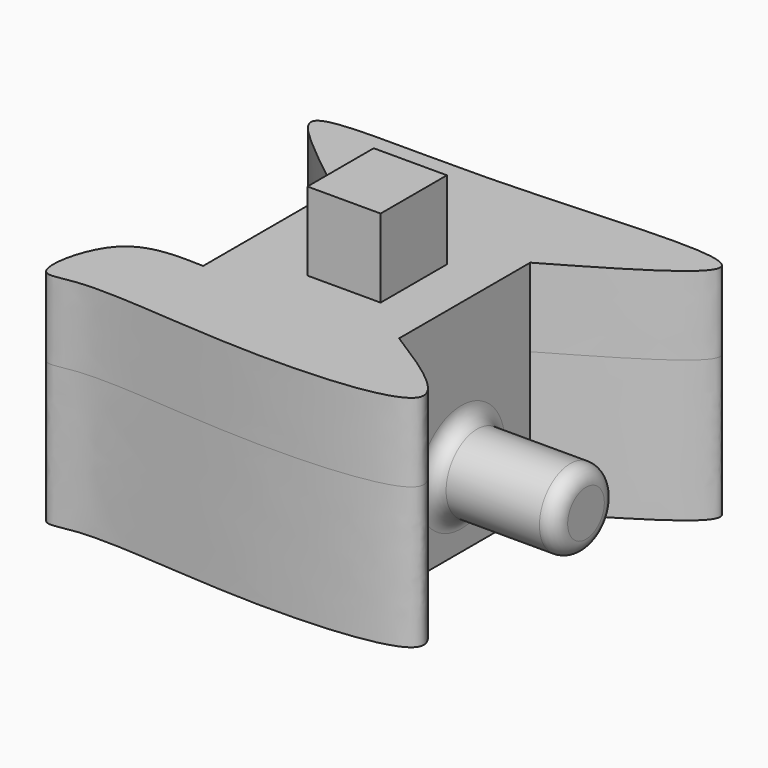
from build123d import *

# Parameters (mm, degrees)
F1_DEPTH = 45.72
F2_R     = 12.4974932992
F3_DEPTH = 40.386
F4_R     = 5.08
F5_W     = 28.9877112955
F5_H     = 43.2857032865
F6_DEPTH = 25.4
F7_W     = 23.6994121224
F7_H     = 26.833220385
F8_DEPTH = 25.4


with BuildPart() as f1:
    # F0 (on Top) → F1 (new body)
    with BuildSketch(Plane.XY):
        with BuildLine():
            add(Edge.make_bspline(
                [(-37.0180904865, 27.9104653746), (-44.0262181446, 33.3876618144), (-55.8376812654, 42.618901157), (-74.3582353785, 59.9087325476), (-9.7486724923, 54.3404813051), (93.6148765495, 66.5819174177), (47.1365427977, 39.8245235425), (26.4414940029, 27.9104653746)],
                knots=[0, 0, 0, 0, 0.1615046227, 0.2721990791, 0.5065633939, 0.7802912924, 1, 1, 1, 1], degree=3))
            Line((-37.0180904865, 27.9104653746), (-37.0180904865, -25.168383494))
            add(Edge.make_bspline(
                [(26.4414940029, -25.168383494), (39.4222010461, -33.3391810672), (68.4454973322, -51.6080995531), (-2.3795046828, -57.1058141044), (-53.5712618708, -49.2831973981), (-69.9812010465, -56.4224478617), (-63.8638372564, -24.2648327427), (-46.139211205, -24.861392761), (-37.0180904865, -25.168383494)],
                knots=[0, 0, 0, 0, 0.1720151184, 0.3846050704, 0.6157256085, 0.7092600098, 0.8503847393, 1, 1, 1, 1], degree=3))
            Line((26.4414940029, -25.168383494), (26.4414940029, 27.9104653746))
        make_face()
    extrude(amount=F1_DEPTH)

    # F2 (on face) → F3 (join)
    with BuildSketch(Plane.YZ.offset(26.4414940029)):
        with Locations((0, 24.1664294153)):
            Circle(F2_R)
    extrude(amount=F3_DEPTH)

    # F4
    f4_edges = [f1.edges().sort_by_distance(p)[0] for p in [
        (46.634494, 12.497493, 24.166429),
        (26.441494, -12.497493, 24.166429),
        (66.827494, -12.497493, 24.166429),
    ]]
    fillet(f4_edges, radius=F4_R)

    # F5 (on face) + F1_face1 (on face) + F1_face2 (on face) → F6 (join)
    with BuildSketch(Plane.XY.offset(45.72)):
        with BuildLine():
            add(Edge.make_bspline(
                [(-37.0180904865, 27.9104653746), (-44.0262181446, 33.3876618144), (-55.8376812654, 42.618901157), (-74.3582353785, 59.9087325476), (-9.7486724923, 54.3404813051), (93.6148765495, 66.5819174177), (47.1365427977, 39.8245235425), (26.4414940029, 27.9104653746)],
                knots=[0, 0, 0, 0, 0.1615046227, 0.2721990791, 0.5065633939, 0.7802912924, 1, 1, 1, 1], degree=3))
            Line((-37.0180904865, 27.9104653746), (-37.0180904865, -25.168383494))
            add(Edge.make_bspline(
                [(26.4414940029, -25.168383494), (39.4222010461, -33.3391810672), (68.4454973322, -51.6080995531), (-2.3795046828, -57.1058141044), (-53.5712618708, -49.2831973981), (-69.9812010465, -56.4224478617), (-63.8638372564, -24.2648327427), (-46.139211205, -24.861392761), (-37.0180904865, -25.168383494)],
                knots=[0, 0, 0, 0, 0.1720151184, 0.3846050704, 0.6157256085, 0.7092600098, 0.8503847393, 1, 1, 1, 1], degree=3))
            Line((26.4414940029, -25.168383494), (26.4414940029, 27.9104653746))
        make_face()
        with Locations((-3.1338064, 3.1338064)):
            Rectangle(F5_W, F5_H, mode=Mode.SUBTRACT)
        with Locations((-3.1338064, 3.1338064)):
            Rectangle(F5_W, F5_H)
    with BuildSketch(Plane(origin=(-5.0458148785, 2.7981816275, 45.72), x_dir=(1, 0, 0), z_dir=(0, 0, 1))):
        with BuildLine():
            add(Edge.make_bspline(
                [(-31.9722756081, 25.1122837471), (-38.9804032661, 30.5894801869), (-50.7918663869, 39.8207195294), (-69.3124205, 57.1105509201), (-4.7028576138, 51.5422996775), (98.6606914279, 63.7837357902), (52.1823576762, 37.026341915), (31.4873088814, 25.1122837471)],
                knots=[0, 0, 0, 0, 0.1615046227, 0.2721990791, 0.5065633939, 0.7802912924, 1, 1, 1, 1], degree=3))
            Line((-31.9722756081, 25.1122837471), (-31.9722756081, -27.9665651215))
            add(Edge.make_bspline(
                [(31.4873088814, -27.9665651215), (44.4680159246, -36.1373626947), (73.4913122106, -54.4062811806), (2.6663101956, -59.903995732), (-48.5254469923, -52.0813790257), (-64.935386168, -59.2206294892), (-58.8180223779, -27.0630143702), (-41.0933963265, -27.6595743886), (-31.9722756081, -27.9665651215)],
                knots=[0, 0, 0, 0, 0.1720151184, 0.3846050704, 0.6157256085, 0.7092600098, 0.8503847393, 1, 1, 1, 1], degree=3))
            Line((31.4873088814, -27.9665651215), (31.4873088814, 25.1122837471))
        make_face()
    with BuildSketch(Plane(origin=(-5.0458148785, 2.7981816275, 0), x_dir=(1, 0, 0), z_dir=(0, 0, -1))):
        with BuildLine():
            add(Edge.make_bspline(
                [(-31.9722756081, -25.1122837471), (-38.9804032661, -30.5894801869), (-50.7918663869, -39.8207195294), (-69.3124205, -57.1105509201), (-4.7028576138, -51.5422996775), (98.6606914279, -63.7837357902), (52.1823576762, -37.026341915), (31.4873088814, -25.1122837471)],
                knots=[0, 0, 0, 0, 0.1615046227, 0.2721990791, 0.5065633939, 0.7802912924, 1, 1, 1, 1], degree=3))
            Line((31.4873088814, -25.1122837471), (31.4873088814, 27.9665651215))
            add(Edge.make_bspline(
                [(31.4873088814, 27.9665651215), (44.4680159246, 36.1373626947), (73.4913122106, 54.4062811806), (2.6663101956, 59.903995732), (-48.5254469923, 52.0813790257), (-64.935386168, 59.2206294892), (-58.8180223779, 27.0630143702), (-41.0933963265, 27.6595743886), (-31.9722756081, 27.9665651215)],
                knots=[0, 0, 0, 0, 0.1720151184, 0.3846050704, 0.6157256085, 0.7092600098, 0.8503847393, 1, 1, 1, 1], degree=3))
            Line((-31.9722756081, 27.9665651215), (-31.9722756081, -25.1122837471))
        make_face()
    extrude(amount=F6_DEPTH, dir=(0, 0, 1))

    # F7 (on face) → F8 (join)
    with BuildSketch(Plane.XY.offset(71.12)):
        with Locations((-1.2731095776, 0.5875886418)):
            Rectangle(F7_W, F7_H)
    extrude(amount=F8_DEPTH)


solid = f1.part
